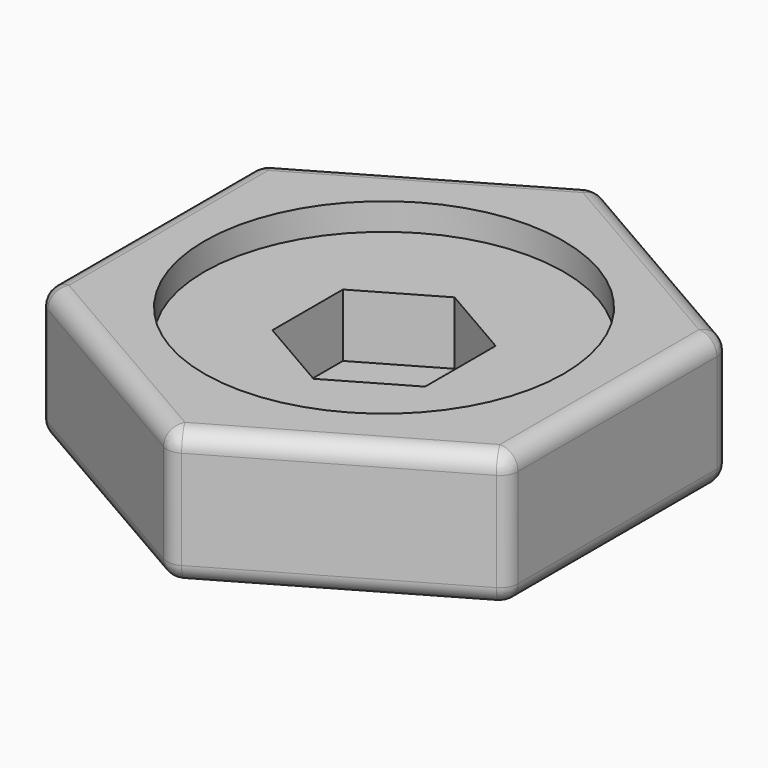
from build123d import *

# Parameters (mm, degrees)
PAD_DEPTH       = 15
SKETCH002_R     = 20
POCKET_DEPTH    = 3
POCKET001_DEPTH = 7
FILLET_R        = 2
FILLET001_R     = 2


with BuildPart() as part:
    # Sketch → Pad (new body)
    with BuildSketch(Plane.XY):
        Polygon((0, 30), (-25.980762, 15), (-25.980762, -15), (0, -30), (25.980762, -15), (25.980762, 15), align=None)
    extrude(amount=PAD_DEPTH)

    # Sketch002 (on Face8 of Pad) → Pocket (cut)
    with BuildSketch(Plane.XY.offset(15)):
        Circle(SKETCH002_R)
    extrude(amount=-POCKET_DEPTH, mode=Mode.SUBTRACT)

    # Sketch003 (on Face10 of Pocket) → Pocket001 (cut)
    with BuildSketch(Plane.XY.offset(12)):
        Polygon((0, 9.814955), (-8.5, 4.907477), (-8.5, -4.907477), (0, -9.814955), (8.5, -4.907477), (8.5, 4.907477), align=None)
    extrude(amount=-POCKET001_DEPTH, mode=Mode.SUBTRACT)

    # Fillet
    fillet_edges = [part.edges().sort_by_distance(p)[0] for p in [
        (25.980762, 0, 15),
        (12.990381, -22.5, 15),
        (-12.990381, -22.5, 15),
        (-25.980762, 0, 15),
        (-12.990381, 22.5, 15),
        (12.990381, 22.5, 15),
        (25.980762, 0, 0),
        (12.990381, -22.5, 0),
        (-12.990381, -22.5, 0),
        (12.990381, 22.5, 0),
        (-12.990381, 22.5, 0),
        (-25.980762, 0, 0),
    ]]
    fillet(fillet_edges, radius=FILLET_R)

    # Fillet001
    fillet001_edges = [part.edges().sort_by_distance(p)[0] for p in [
        (0, 30, 7.5),
        (-25.980762, 15, 7.5),
        (-25.980762, -15, 7.5),
        (0, -30, 7.5),
        (25.980762, -15, 7.5),
        (25.980762, 15, 7.5),
    ]]
    fillet(fillet001_edges, radius=FILLET001_R)


solid = part.part
